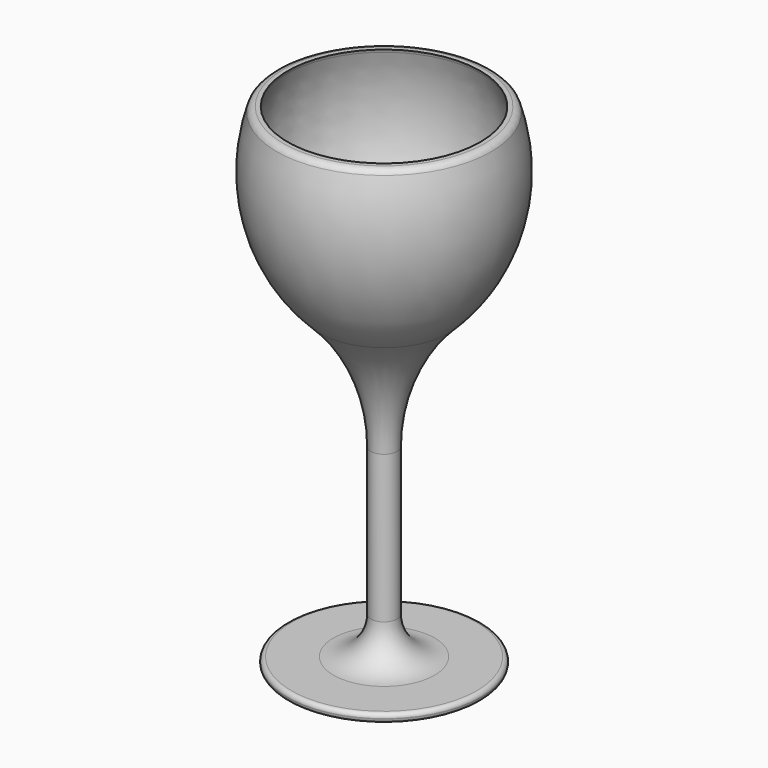
from build123d import *

# Parameters (mm, degrees)
F2_R = 2.54


with BuildPart() as f1:
    # F0 (on Front) → F1 (revolve)
    with BuildSketch(Plane.XZ):
        with BuildLine():
            Line((38.1, 64.578639), (34.729879, 64.578639))
            Line((34.729879, 64.578639), (35.108824, 63.513984))
            ThreePointArc((35.108824, 63.513984), (35.690894, 26.195698), (13.488461, -3.805056))
            ThreePointArc((13.488461, -3.805056), (7.067597, -6.950351), (0, -8.031769))
            Line((0, -8.031769), (0, -113.221361))
            Line((0, -113.221361), (33.401, -113.221361))
            ThreePointArc((33.401, -113.221361), (34.478631, -112.774991), (34.925, -111.697361))
            Line((34.925, -111.697361), (34.925, -111.570361))
            ThreePointArc((34.925, -111.570361), (34.478631, -110.49273), (33.401, -110.046361))
            Line((33.401, -110.046361), (18.215093, -110.046361))
            ThreePointArc((18.215093, -110.046361), (8.702673, -106.106187), (4.7625, -96.593768))
            Line((4.7625, -96.593768), (4.7625, -43.374097))
            ThreePointArc((4.7625, -43.374097), (9.528865, -19.832966), (23.077168, 0))
            ThreePointArc((23.077168, 0), (40.057561, 30.086566), (38.1, 64.578639))
        make_face()
    revolve(axis=Axis((0, 0, -60.626565), (0, 0, -1)))

    # F2
    f2_edges = [f1.edges().sort_by_distance(p)[0] for p in [
        (-35.108824, 0, 63.513984),
        (-38.1, 0, 64.578639),
    ]]
    fillet(f2_edges, radius=F2_R)


solid = f1.part
